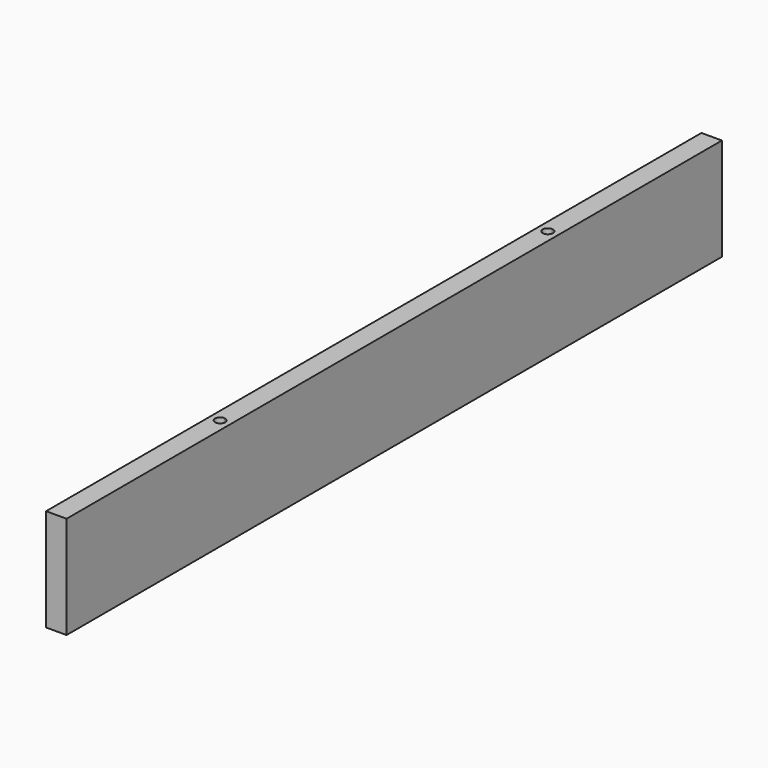
from build123d import *

# Parameters (mm, degrees)
F0_W     = 12.7
F0_H     = 508
F1_DEPTH = 63.5
F3_DEPTH = 63.5


with BuildPart() as f1:
    # F0 (on Top) → F1 (new body)
    with BuildSketch(Plane.XY):
        Rectangle(F0_W, F0_H)
    extrude(amount=F1_DEPTH)

    # F2 (on face) → F3 (cut, through all)
    with BuildSketch(Plane(origin=(0, 0, 0), x_dir=(1, 0, 0), z_dir=(0, 0, -1))):
        with BuildLine():
            ThreePointArc((3.175, 127), (2.245064, 129.245064), (0, 130.175))
            Line((0, 130.175), (0, 127))
            Line((0, 127), (0, 123.825))
            ThreePointArc((0, 123.825), (2.245064, 124.754936), (3.175, 127))
        make_face()
        with BuildLine():
            ThreePointArc((3.175, -127), (2.245064, -124.754936), (0, -123.825))
            Line((0, -123.825), (0, -127))
            Line((0, -127), (0, -130.175))
            ThreePointArc((0, -130.175), (2.245064, -129.245064), (3.175, -127))
        make_face()
        with BuildLine():
            Line((0, -127), (0, -123.825))
            ThreePointArc((0, -123.825), (-3.175, -127), (0, -130.175))
            Line((0, -130.175), (0, -127))
        make_face()
        with BuildLine():
            Line((0, 127), (0, 130.175))
            ThreePointArc((0, 130.175), (-3.175, 127), (0, 123.825))
            Line((0, 123.825), (0, 127))
        make_face()
    extrude(amount=-F3_DEPTH, mode=Mode.SUBTRACT)


solid = f1.part
